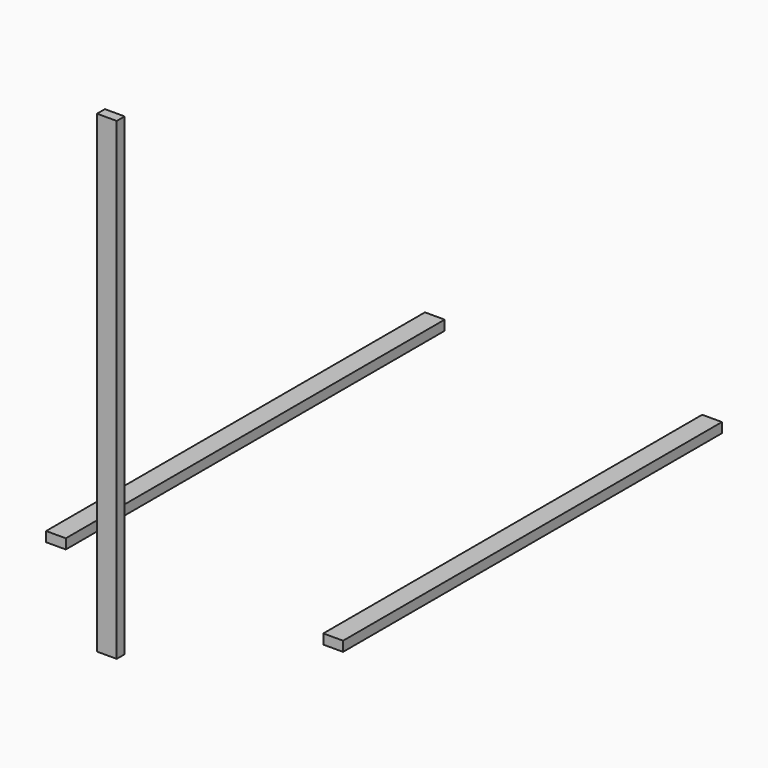
from build123d import *

# Parameters (mm, degrees)
F0_W     = 101.6
F0_H     = 50.8
F1_DEPTH = 2438.4
F5_ANGLE = 90


with BuildPart() as f1:
    # F0 (on Front) → F1 (new body)
    with BuildSketch(Plane.XZ):
        with Locations((-42.8345240653, 13.6099274259)):
            Rectangle(F0_W, F0_H)
    extrude(amount=F1_DEPTH)


with BuildPart() as f2_1:
    # F2: copy of F1
    add(f1.part)


with BuildPart() as f1_1:
    # F3: moved
    add(f1.part.moved(Location((-1427.48, 0, 0))))


with BuildPart() as f4_1:
    # F4: copy of F1
    add(f1_1.part.moved(Location((751.84, -612.14, 0))))


with BuildPart() as f4_1_1:
    # F5: moved
    add(f4_1.part.rotate(Axis((-718.4745240653, -3050.54, 39.0099274259), (1, 0, 0)), F5_ANGLE))


with BuildPart() as f4_1_2:
    # F6: moved
    add(f4_1_1.part.moved(Location((0, 0, -40.64))))


with BuildPart() as f1_2:
    # F7: moved
    add(f1_1.part.moved(Location((0, 0, 12.7))))


with BuildPart() as f2_1_1:
    # F8: moved
    add(f2_1.part.moved(Location((0, 0, 12.7))))


solid = Compound([f4_1_2.part, f1_2.part, f2_1_1.part])
